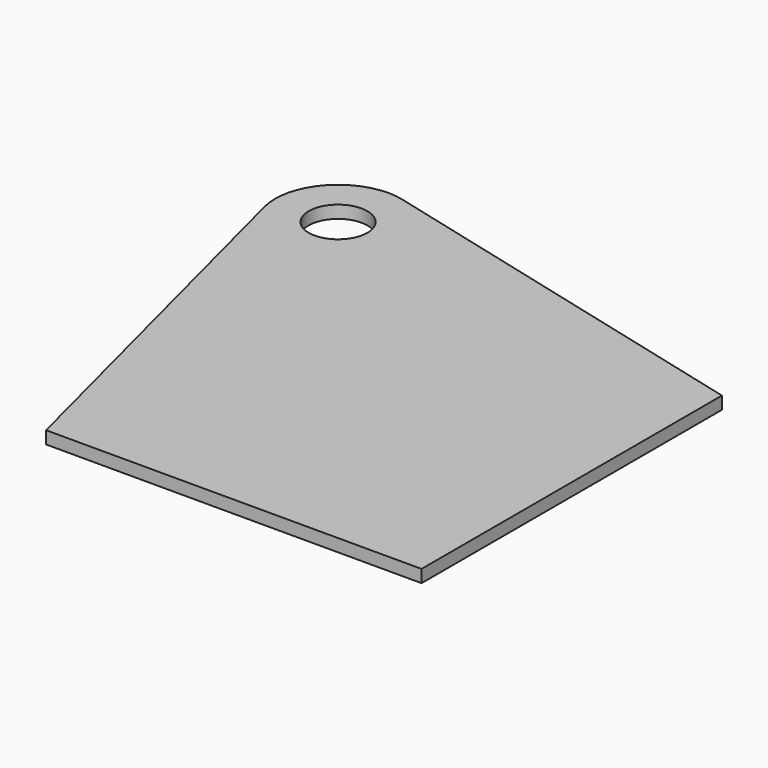
from build123d import *

# Parameters (mm, degrees)
F1_R     = 7
F2_DEPTH = 3


with BuildPart() as f2:
    # F1 (on Top) → F2 (new body)
    with BuildSketch(Plane.XY):
        with BuildLine():
            ThreePointArc((-96.278295, 114.530964), (-88.15041, 109.197131), (-85, 100))
            ThreePointArc((-85, 100), (-98.124327, 85.117734), (-114.530913, 96.278097))
            Line((-114.530913, 96.278097), (-89.998611, 0.5))
            Line((-89.998611, 0.5), (-0.5, 0.5))
            Line((-0.5, 0.5), (-0.5, 90))
            Line((-0.5, 90), (-96.278295, 114.530964))
        make_face()
        with BuildLine():
            ThreePointArc((-114.530913, 96.278097), (-98.124327, 85.117734), (-85, 100))
            ThreePointArc((-85, 100), (-88.15041, 109.197131), (-96.278295, 114.530964))
            ThreePointArc((-96.278295, 114.530964), (-110.606674, 110.60653), (-114.530913, 96.278097))
        make_face()
        with Locations((-100, 100)):
            Circle(F1_R, mode=Mode.SUBTRACT)
    extrude(amount=F2_DEPTH)


solid = f2.part
